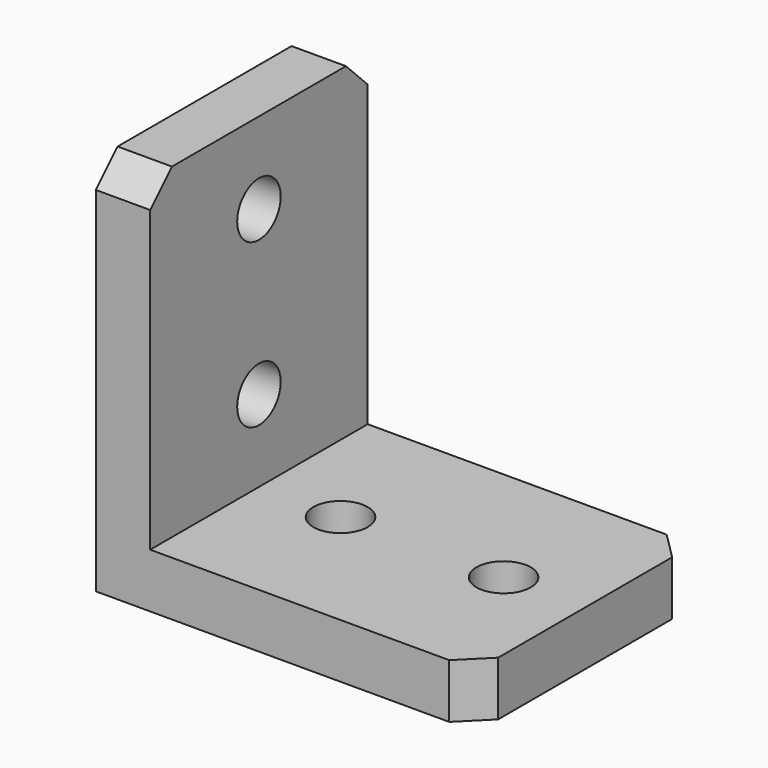
from build123d import *

# Parameters (mm, degrees)
F0_W     = 17.78
F0_H     = 12.7
F0_R     = 1.27
F1_DEPTH = 2.54
F2_W     = 2.54
F2_H     = 12.7
F3_DEPTH = 15.24
F4_R     = 1.27
F5_DEPTH = 25.4
F6_SIZE  = 1.27


with BuildPart() as f1:
    # F0 (on Top) → F1 (new body)
    with BuildSketch(Plane.XY):
        with Locations((-26.076857, 25.594209)):
            Rectangle(F0_W, F0_H)
        with Locations((-28.616857, 25.594209)):
            Circle(F0_R, mode=Mode.SUBTRACT)
        with Locations((-20.996857, 25.594209)):
            Circle(F0_R, mode=Mode.SUBTRACT)
    extrude(amount=F1_DEPTH)

    # F2 (on face) → F3 (join)
    with BuildSketch(Plane.XY.offset(2.54)):
        with Locations((-33.696857, 25.594209)):
            Rectangle(F2_W, F2_H)
    extrude(amount=F3_DEPTH)

    # F4 (on face) → F5 (cut)
    with BuildSketch(Plane(origin=(-34.966857, 0, 0), x_dir=(0, -1, 0), z_dir=(-1, 0, 0))):
        with Locations((-25.594209, 13.97)):
            Circle(F4_R)
        with Locations((-25.594209, 6.35)):
            Circle(F4_R)
    extrude(amount=-F5_DEPTH, mode=Mode.SUBTRACT)

    # F6
    f6_edges = [f1.edges().sort_by_distance(p)[0] for p in [
        (-33.696857, 19.244209, 17.78),
        (-33.696857, 31.944209, 17.78),
        (-17.186857, 19.244209, 1.27),
        (-17.186857, 31.944209, 1.27),
    ]]
    chamfer(f6_edges, length=F6_SIZE)


solid = f1.part
